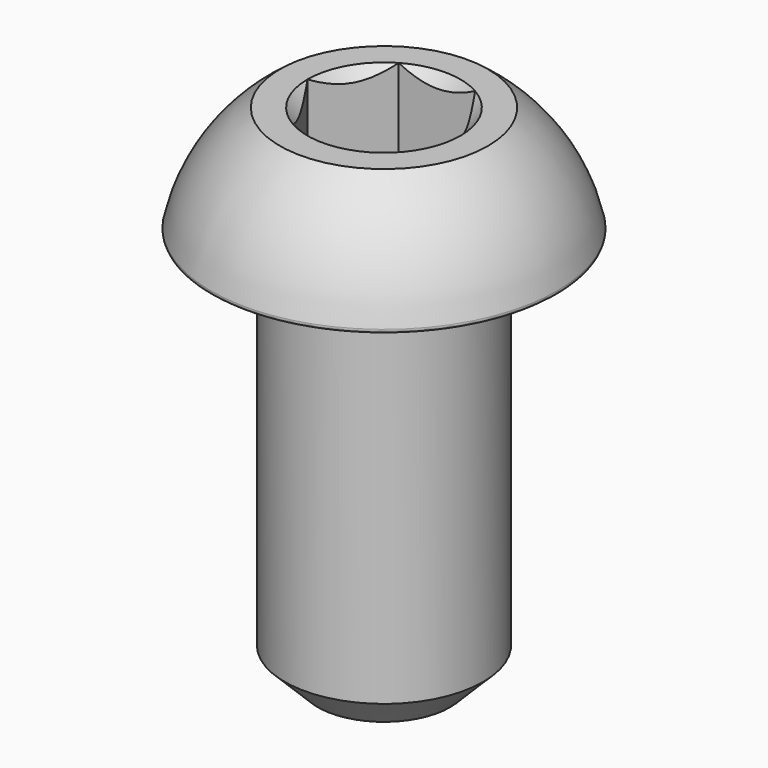
from build123d import *

# Parameters (mm, degrees)
SKETCH001_R  = 6
POCKET_DEPTH = 10.600854
FILLET_R     = 0.1
CHAMFER_SIZE = 1


with BuildPart() as pocket:
    # Sketch003 → Revolution001 (revolve)
    with BuildSketch(Plane.XZ):
        Polygon((0, -0.599854), (5, 1.22), (5, 10), (0, 10), align=None)
    revolve(axis=Axis((0, 0, 0), (0, 0, 1)))

    # Sketch001 → Pocket (cut, through all)
    with BuildSketch(Plane(origin=(0, 0, 10), x_dir=(-1, 0, 0), z_dir=(0, 0, 1))):
        Circle(SKETCH001_R)
        Polygon((-1.154701, 2), (1.154701, 2), (2.309401, 0), (1.154701, -2), (-1.154701, -2), (-2.309401, 0), align=None, mode=Mode.SUBTRACT)
    extrude(amount=-POCKET_DEPTH, mode=Mode.SUBTRACT)


with BuildPart() as chamfer_body:
    # Sketch → Revolution (revolve)
    with BuildSketch(Plane.XZ):
        with BuildLine():
            Line((2.3094, 3.3), (3.142831, 3.3))
            ThreePointArc((5.25, 0), (4.509146, 1.84969), (3.142831, 3.3))
            Line((5.25, 0), (3, 0))
            Line((3, 0), (3, -12))
            Line((3, -12), (0, -12))
            Line((0, -12), (0, 0.990598))
            Line((0, 0.990598), (2.3094, 3.3))
        make_face()
    revolve(axis=Axis((0, 0, 0), (0, 0, 1)))

    # Cut: cut Pocket
    add(pocket.part, mode=Mode.SUBTRACT)

    # Fillet
    fillet_edges = [chamfer_body.edges().sort_by_distance(p)[0] for p in [
        (-5.25, 0, 0),
    ]]
    fillet(fillet_edges, radius=FILLET_R)

    # Chamfer
    chamfer_edges = [chamfer_body.edges().sort_by_distance(p)[0] for p in [
        (-3, 0, -12),
    ]]
    chamfer(chamfer_edges, length=CHAMFER_SIZE)


solid = chamfer_body.part
